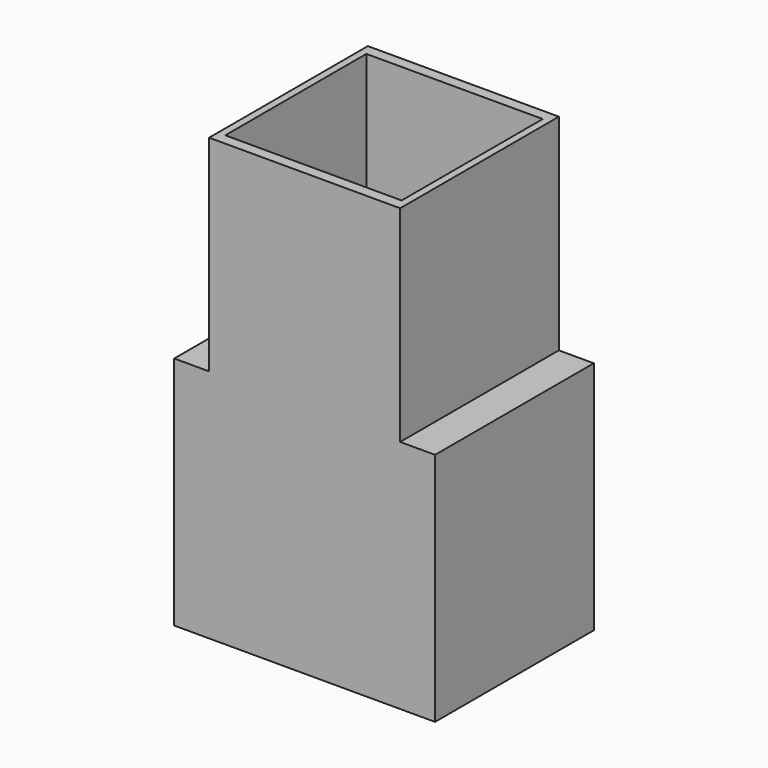
from build123d import *

# Parameters (mm, degrees)
SKETCH_W      = 26
SKETCH_H      = 27
SKETCH_W_2    = 24
SKETCH_H_2    = 24
PAD_DEPTH     = 30
SKETCH001_W   = 35.5
SKETCH001_H   = 27
SKETCH001_W_2 = 33.5
SKETCH001_H_2 = 25
PAD001_DEPTH  = 30
SKETCH002_W   = 35.5
SKETCH002_H   = 27
SKETCH002_W_2 = 24
SKETCH002_H_2 = 24
PAD002_DEPTH  = 2


with BuildPart() as part:
    # Sketch → Pad (new body)
    with BuildSketch(Plane.XY):
        Rectangle(SKETCH_W, SKETCH_H)
        Rectangle(SKETCH_W_2, SKETCH_H_2, mode=Mode.SUBTRACT)
    extrude(amount=PAD_DEPTH)

    # Sketch001 → Pad001 (join)
    with BuildSketch(Plane.XY):
        Rectangle(SKETCH001_W, SKETCH001_H)
        Rectangle(SKETCH001_W_2, SKETCH001_H_2, mode=Mode.SUBTRACT)
    extrude(amount=-PAD001_DEPTH)

    # Sketch002 → Pad002 (join)
    with BuildSketch(Plane.XY):
        Rectangle(SKETCH002_W, SKETCH002_H)
        Rectangle(SKETCH002_W_2, SKETCH002_H_2, mode=Mode.SUBTRACT)
    extrude(amount=PAD002_DEPTH)


solid = part.part
